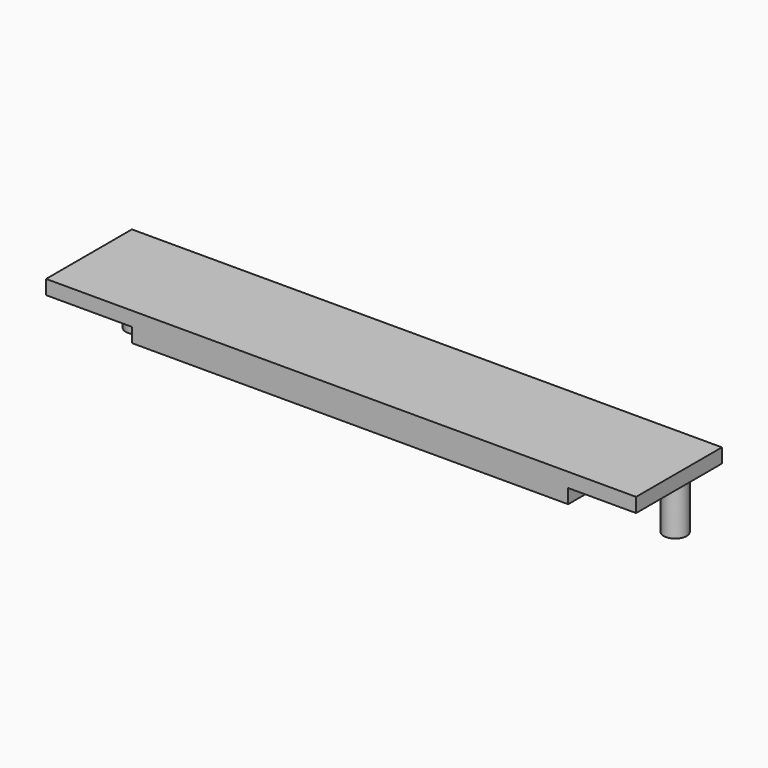
from build123d import *

# Parameters (mm, degrees)
CYLINDER_R        = 1.6
CYLINDER_DEPTH    = 10
BOX001_W          = 61
BOX001_H          = 15
BOX001_DEPTH      = 2
BOX_W             = 82.5
BOX_H             = 15
BOX_DEPTH         = 2
CYLINDER003_R     = 1.6
CYLINDER003_DEPTH = 10


with BuildPart() as taladro1:
    # Cylinder → Cylinder (new body)
    with BuildSketch(Plane(origin=(0, 1.2, -10), x_dir=(1, 0, 0), z_dir=(0, 0, 1))):
        Circle(CYLINDER_R)
    extrude(amount=CYLINDER_DEPTH)


with BuildPart() as perfora_2mm_centro:
    # Box001 → Box001 (new body)
    with BuildSketch(Plane(origin=(12, 0, -2), x_dir=(1, 0, 0), z_dir=(0, 0, 1))):
        with Locations((30.5, 7.5)):
            Rectangle(BOX001_W, BOX001_H)
    extrude(amount=BOX001_DEPTH)


with BuildPart() as fusion001:
    # Box → Box (new body)
    with BuildSketch(Plane.XY):
        with Locations((41.25, 7.5)):
            Rectangle(BOX_W, BOX_H)
    extrude(amount=BOX_DEPTH)

    # Fusion: union perfora_2mm_centro
    add(perfora_2mm_centro.part)


with BuildPart() as fusion001_1:
    # Fusion placement: moved
    add(fusion001.part.moved(Location((-3, -11, -2))))

    # Fusion001: union taladro1
    add(taladro1.part)


with BuildPart() as fusion006:
    # Cylinder003 → Cylinder003 (new body)
    with BuildSketch(Plane(origin=(76, 0.2, -10), x_dir=(1, 0, 0), z_dir=(0, 0, 1))):
        Circle(CYLINDER003_R)
    extrude(amount=CYLINDER003_DEPTH)

    # Fusion006: union Fusion001
    add(fusion001_1.part)


solid = fusion006.part
